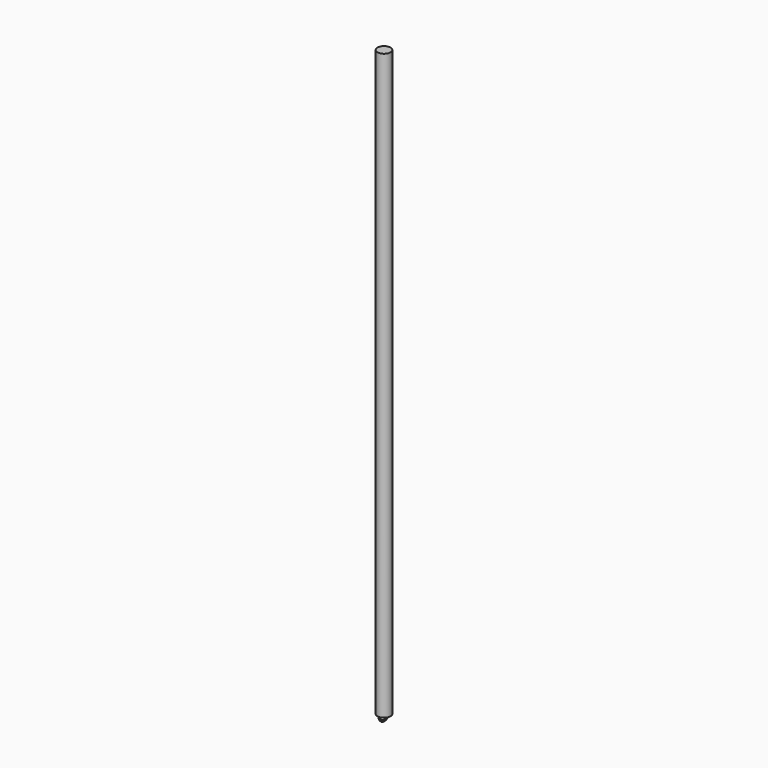
from build123d import *

# Parameters (mm, degrees)
F0_R     = 3.96875
F1_DEPTH = 355.6
F2_R     = 0.396875


with BuildPart() as f1:
    # F0 (on Top) → F1 (new body)
    with BuildSketch(Plane.XY):
        Circle(F0_R)
    extrude(amount=F1_DEPTH)

    # F2 (on Top) → F3 (revolve)
    with BuildSketch(Plane.XY):
        with Locations((0, -3.571875)):
            Circle(F2_R)
    revolve(axis=Axis((0.034609, 0, 0), (1, 0, 0)))


solid = f1.part
